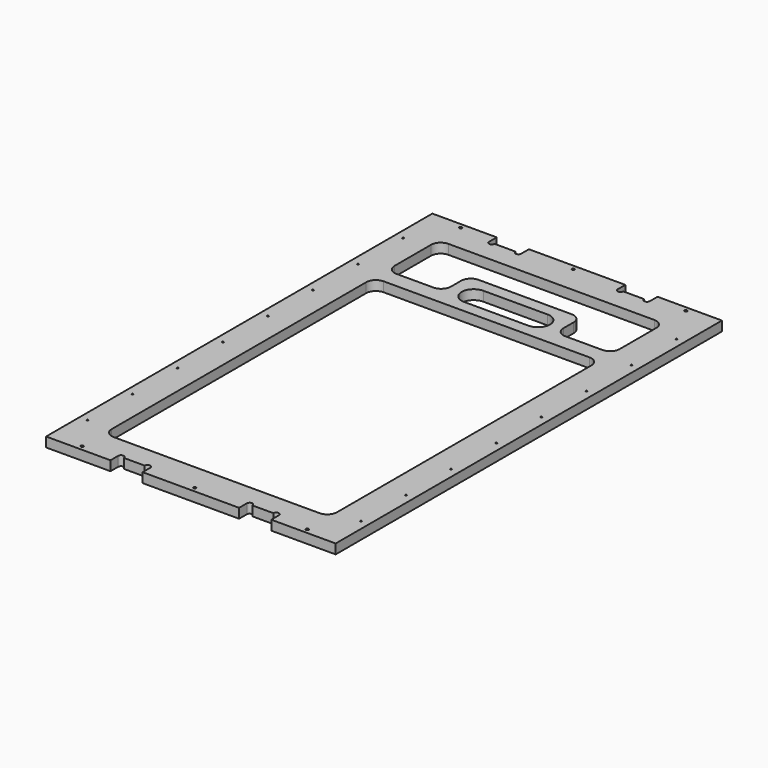
from build123d import *

# Parameters (mm, degrees)
F0_R     = 1.75
F0_R_2   = 1
F1_DEPTH = 12


with BuildPart() as f1:
    # F0 (on Top) → F1 (new body)
    with BuildSketch(Plane.XY):
        with BuildLine():
            Line((0, 600), (0, 0))
            Line((0, 0), (80, 0))
            Line((80, 0), (80, 12))
            ThreePointArc((80, 12), (83.5, 15.5), (87, 12))
            Line((87, 12), (113, 12))
            ThreePointArc((113, 12), (116.5, 15.5), (120, 12))
            Line((120, 12), (120, 0))
            Line((120, 0), (239.85, 0))
            Line((239.85, 0), (239.85, 12))
            ThreePointArc((239.85, 12), (243.35, 15.5), (246.85, 12))
            Line((246.85, 12), (272.85, 12))
            ThreePointArc((272.85, 12), (276.35, 15.5), (279.85, 12))
            Line((279.85, 12), (279.85, 0))
            Line((279.85, 0), (359.85, 0))
            Line((359.85, 0), (359.85, 600))
            Line((359.85, 600), (279.85, 600))
            Line((279.85, 600), (279.85, 588))
            ThreePointArc((279.85, 588), (276.35, 584.5), (272.85, 588))
            Line((272.85, 588), (246.85, 588))
            ThreePointArc((246.85, 588), (243.35, 584.5), (239.85, 588))
            Line((239.85, 588), (239.85, 600))
            Line((239.85, 600), (120, 600))
            Line((120, 600), (120, 588))
            ThreePointArc((120, 588), (116.5, 584.5), (113, 588))
            Line((113, 588), (87, 588))
            ThreePointArc((87, 588), (83.5, 584.5), (80, 588))
            Line((80, 588), (80, 600))
            Line((80, 600), (0, 600))
        make_face()
        with Locations((40, 6)):
            Circle(F0_R, mode=Mode.SUBTRACT)
        with Locations((10, 52)):
            Circle(F0_R_2, mode=Mode.SUBTRACT)
        with Locations((10, 122)):
            Circle(F0_R_2, mode=Mode.SUBTRACT)
        with Locations((10, 192)):
            Circle(F0_R_2, mode=Mode.SUBTRACT)
        with Locations((10, 262)):
            Circle(F0_R_2, mode=Mode.SUBTRACT)
        with Locations((179.925, 6)):
            Circle(F0_R, mode=Mode.SUBTRACT)
        with Locations((319.85, 6)):
            Circle(F0_R, mode=Mode.SUBTRACT)
        with Locations((349.85, 52)):
            Circle(F0_R_2, mode=Mode.SUBTRACT)
        with Locations((349.85, 122)):
            Circle(F0_R_2, mode=Mode.SUBTRACT)
        with BuildLine():
            ThreePointArc((40, 447.265898), (43.514719, 455.75118), (52, 459.265898))
            Line((52, 459.265898), (307.85, 459.265898))
            ThreePointArc((307.85, 459.265898), (316.335281, 455.75118), (319.85, 447.265898))
            Line((319.85, 447.265898), (319.85, 52))
            ThreePointArc((319.85, 52), (316.335281, 43.514719), (307.85, 40))
            Line((307.85, 40), (52, 40))
            ThreePointArc((52, 40), (43.514719, 43.514719), (40, 52))
            Line((40, 52), (40, 447.265898))
        make_face(mode=Mode.SUBTRACT)
        with Locations((349.85, 192)):
            Circle(F0_R_2, mode=Mode.SUBTRACT)
        with Locations((349.85, 262)):
            Circle(F0_R_2, mode=Mode.SUBTRACT)
        with Locations((10, 332)):
            Circle(F0_R_2, mode=Mode.SUBTRACT)
        with Locations((10, 402)):
            Circle(F0_R_2, mode=Mode.SUBTRACT)
        with Locations((10, 472)):
            Circle(F0_R_2, mode=Mode.SUBTRACT)
        with Locations((10, 542)):
            Circle(F0_R_2, mode=Mode.SUBTRACT)
        with Locations((40, 594)):
            Circle(F0_R, mode=Mode.SUBTRACT)
        with Locations((349.85, 332)):
            Circle(F0_R_2, mode=Mode.SUBTRACT)
        with Locations((349.85, 402)):
            Circle(F0_R_2, mode=Mode.SUBTRACT)
        with BuildLine():
            Line((219.85, 474.265898), (140, 474.265898))
            ThreePointArc((140, 474.265898), (125, 489.265898), (140, 504.265898))
            Line((140, 504.265898), (219.85, 504.265898))
            ThreePointArc((219.85, 504.265898), (234.85, 489.265898), (219.85, 474.265898))
        make_face(mode=Mode.SUBTRACT)
        with BuildLine():
            ThreePointArc((40, 548), (43.514719, 556.485281), (52, 560))
            Line((52, 560), (307.85, 560))
            ThreePointArc((307.85, 560), (316.335281, 556.485281), (319.85, 548))
            Line((319.85, 548), (319.85, 491.265898))
            ThreePointArc((319.85, 491.265898), (316.335281, 482.780617), (307.85, 479.265898))
            Line((307.85, 479.265898), (261.85, 479.265898))
            ThreePointArc((261.85, 479.265898), (253.364719, 482.780617), (249.85, 491.265898))
            Line((249.85, 491.265898), (249.85, 507.265898))
            ThreePointArc((249.85, 507.265898), (246.335281, 515.75118), (237.85, 519.265898))
            Line((237.85, 519.265898), (122, 519.265898))
            ThreePointArc((122, 519.265898), (113.514719, 515.75118), (110, 507.265898))
            Line((110, 507.265898), (110, 491.265898))
            ThreePointArc((110, 491.265898), (106.485281, 482.780617), (98, 479.265898))
            Line((98, 479.265898), (52, 479.265898))
            ThreePointArc((52, 479.265898), (43.514719, 482.780617), (40, 491.265898))
            Line((40, 491.265898), (40, 548))
        make_face(mode=Mode.SUBTRACT)
        with Locations((179.925, 594)):
            Circle(F0_R, mode=Mode.SUBTRACT)
        with Locations((349.85, 472)):
            Circle(F0_R_2, mode=Mode.SUBTRACT)
        with Locations((349.85, 542)):
            Circle(F0_R_2, mode=Mode.SUBTRACT)
        with Locations((319.85, 594)):
            Circle(F0_R, mode=Mode.SUBTRACT)
    extrude(amount=F1_DEPTH)


solid = f1.part
